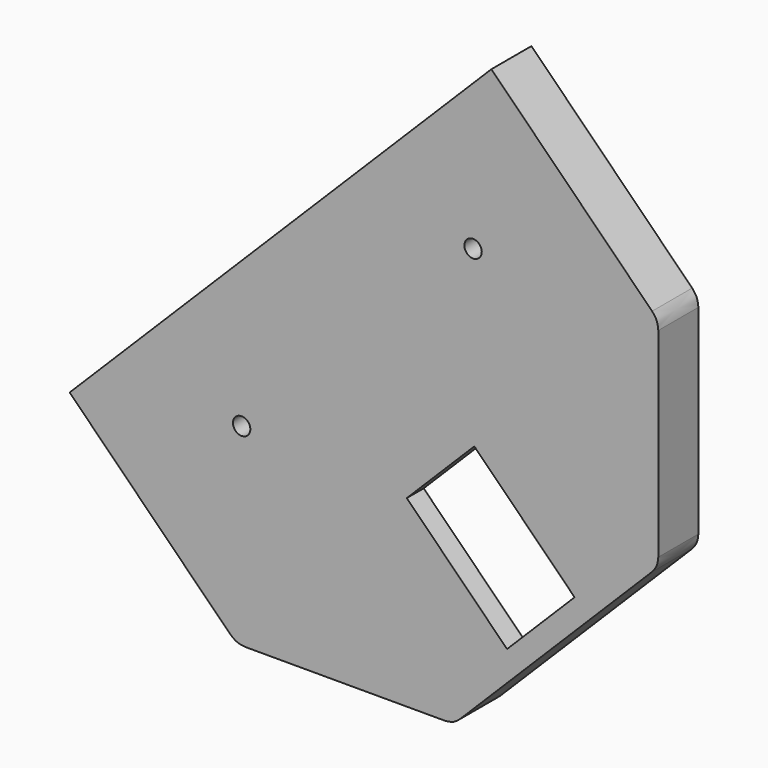
from build123d import *

# Parameters (mm, degrees)
F0_W     = 4.4881204973
F0_H     = 1
F0_W_2   = 1
F0_H_2   = 9.6190602487
F0_H_3   = 7.107180746
F1_DEPTH = 8.65
F2_DEPTH = 5
F3_DEPTH = 5
F5_DEPTH = 3.65
F6_R     = 1.5
F7_DEPTH = 3.65


with BuildPart() as f1:
    # F0 (on Front) → F1 (new body)
    with BuildSketch(Plane.XZ):
        with BuildLine():
            Line((34.3548780517, 39.6712920324), (6.5856519265, 67.4405181576))
            Line((6.5856519265, 67.4405181576), (-66.2696871329, -5.4148209018))
            Line((-66.2696871329, -5.4148209018), (-38.5004610077, -33.1840470269))
            add(Edge.make_bspline(
                [(-38.5004610077, -33.1840470269), (-38.1234667087, -33.490568944), (-37.3694781107, -34.1036127783), (-36.4028402078, -34.2032757765), (-35.9195212563, -34.2531072756)],
                knots=[0, 0, 0, 0, 0.5, 1, 1, 1, 1], degree=3))
            Line((-35.9195212563, -34.2531072756), (-1.4432802617, -34.2531072756))
            add(Edge.make_bspline(
                [(-1.4432802617, -34.2531072756), (-0.9599613102, -34.2032757765), (0.0066765927, -34.1036127783), (0.7606651907, -33.490568944), (1.1376594897, -33.1840470269)],
                knots=[0, 0, 0, 0, 0.5, 1, 1, 1, 1], degree=3))
            Line((1.1376594897, -33.1840470269), (17.7462687707, -16.5754377459))
            Line((17.7462687707, -16.5754377459), (34.3548780517, 0.0331715351))
            add(Edge.make_bspline(
                [(34.3548780517, 0.0331715351), (34.6613999688, 0.4101658341), (35.274443803, 1.164154432), (35.3741068012, 2.1307923349), (35.4239383003, 2.6141112864)],
                knots=[0, 0, 0, 0, 0.5, 1, 1, 1, 1], degree=3))
            Line((35.4239383003, 2.6141112864), (35.4239383003, 37.0903522811))
            add(Edge.make_bspline(
                [(35.4239383003, 37.0903522811), (35.3741068012, 37.5736712325), (35.274443803, 38.5403091354), (34.6613999688, 39.2942977334), (34.3548780517, 39.6712920324)],
                knots=[0, 0, 0, 0, 0.5, 1, 1, 1, 1], degree=3))
        make_face()
        Polygon((-61.8149144114, -6.1219276829), (-37.3337348187, -30.6031072756), (-38.0408415999, -31.3102140568), (-62.5220211925, -6.8290344641), align=None, mode=Mode.SUBTRACT)
        with Locations((-32.6754610077, -32.1031072756)):
            Rectangle(F0_W, F0_H, mode=Mode.SUBTRACT)
        with Locations((-4.6873405103, -32.1031072756)):
            Rectangle(F0_W, F0_H, mode=Mode.SUBTRACT)
        Polygon((5.6193874733, -24.954653103), (6.3264942545, -25.6617598842), (0.6780400819, -31.3102140568), (-0.0290666993, -30.6031072756), align=None, mode=Mode.SUBTRACT)
        Polygon((25.4183773465, -3.7414496674), (15.1653290193, -13.9944979946), (-0.7361734805, -29.8960004944), (-2.4432802617, -30.6031072756), (-6.931400759, -30.6031072756), (-30.431400759, -30.6031072756), (-34.9195212563, -30.6031072756), (-36.6266280375, -29.8960004944), (-61.1078076302, -5.4148209018), (6.5856519265, 62.2786386549), (31.0668315191, 37.7974590623), (31.7739383003, 36.0903522811), (31.7739383003, 3.6141112864), (31.0668315191, 1.9070045052), align=None, mode=Mode.SUBTRACT)
        Polygon((32.4810450815, 0.4927909428), (26.8325909089, -5.1556632298), (26.1254841277, -4.4485564486), (31.7739383003, 1.199897724), align=None, mode=Mode.SUBTRACT)
        with Locations((33.2739383003, 8.4236414107)):
            Rectangle(F0_W_2, F0_H_2, mode=Mode.SUBTRACT)
        Polygon((-62.5220211926, -4.0006073394), (5.1714383642, 63.6928522173), (5.8785451453, 62.9857454361), (-61.8149144114, -4.7077141206), align=None, mode=Mode.SUBTRACT)
        with Locations((33.2739383003, 32.5367619081)):
            Rectangle(F0_W_2, F0_H_3, mode=Mode.SUBTRACT)
        Polygon((7.9998654889, 63.6928522172), (32.4810450815, 39.2116726246), (31.7739383003, 38.5045658435), (7.2927587077, 62.9857454361), align=None, mode=Mode.SUBTRACT)
        Polygon((-0.7361734805, -29.8960004944), (15.1653290193, -13.9944979946), (25.4183773465, -3.7414496674), (31.0668315191, 1.9070045052), (31.7739383003, 3.6141112864), (31.7739383003, 36.0903522811), (31.0668315191, 37.7974590623), (6.5856519265, 62.2786386549), (-61.1078076302, -5.4148209018), (-36.6266280375, -29.8960004944), (-34.9195212563, -30.6031072756), (-30.431400759, -30.6031072756), (-6.931400759, -30.6031072756), (-2.4432802617, -30.6031072756), align=None)
        Polygon((5.8785451453, 62.9857454361), (5.1714383642, 63.6928522173), (-62.5220211926, -4.0006073394), (-61.8149144114, -4.7077141206), align=None)
        Polygon((31.7739383003, 38.5045658435), (32.4810450815, 39.2116726246), (7.9998654889, 63.6928522172), (7.2927587077, 62.9857454361), align=None)
        Polygon((-38.0408415999, -31.3102140568), (-37.3337348187, -30.6031072756), (-61.8149144114, -6.1219276829), (-62.5220211925, -6.8290344641), align=None)
        with Locations((33.2739383003, 8.4236414107)):
            Rectangle(F0_W_2, F0_H_2)
        Polygon((26.1254841277, -4.4485564486), (26.8325909089, -5.1556632298), (32.4810450815, 0.4927909428), (31.7739383003, 1.199897724), align=None)
        Polygon((0.6780400819, -31.3102140568), (6.3264942545, -25.6617598842), (5.6193874733, -24.954653103), (-0.0290666993, -30.6031072756), align=None)
        with Locations((33.2739383003, 32.5367619081)):
            Rectangle(F0_W_2, F0_H_3)
        with Locations((-4.6873405103, -32.1031072756)):
            Rectangle(F0_W, F0_H)
        with Locations((-32.6754610077, -32.1031072756)):
            Rectangle(F0_W, F0_H)
    extrude(amount=F1_DEPTH)

    # F0 (on Front) → F2 (cut)
    with BuildSketch(Plane.XZ):
        Polygon((-0.7361734805, -29.8960004944), (15.1653290193, -13.9944979946), (25.4183773465, -3.7414496674), (31.0668315191, 1.9070045052), (31.7739383003, 3.6141112864), (31.7739383003, 36.0903522811), (31.0668315191, 37.7974590623), (6.5856519265, 62.2786386549), (-61.1078076302, -5.4148209018), (-36.6266280375, -29.8960004944), (-34.9195212563, -30.6031072756), (-30.431400759, -30.6031072756), (-6.931400759, -30.6031072756), (-2.4432802617, -30.6031072756), align=None)
    extrude(amount=F2_DEPTH, mode=Mode.SUBTRACT)

    # F0 (on Front) → F3 (cut)
    with BuildSketch(Plane.XZ):
        Polygon((31.7739383003, 38.5045658435), (32.4810450815, 39.2116726246), (7.9998654889, 63.6928522172), (7.2927587077, 62.9857454361), align=None)
        Polygon((5.8785451453, 62.9857454361), (5.1714383642, 63.6928522173), (-62.5220211926, -4.0006073394), (-61.8149144114, -4.7077141206), align=None)
        Polygon((-38.0408415999, -31.3102140568), (-37.3337348187, -30.6031072756), (-61.8149144114, -6.1219276829), (-62.5220211925, -6.8290344641), align=None)
        with Locations((-32.6754610077, -32.1031072756)):
            Rectangle(F0_W, F0_H)
        with Locations((-4.6873405103, -32.1031072756)):
            Rectangle(F0_W, F0_H)
        Polygon((0.6780400819, -31.3102140568), (6.3264942545, -25.6617598842), (5.6193874733, -24.954653103), (-0.0290666993, -30.6031072756), align=None)
        Polygon((26.1254841277, -4.4485564486), (26.8325909089, -5.1556632298), (32.4810450815, 0.4927909428), (31.7739383003, 1.199897724), align=None)
        with Locations((33.2739383003, 8.4236414107)):
            Rectangle(F0_W_2, F0_H_2)
        with Locations((33.2739383003, 32.5367619081)):
            Rectangle(F0_W_2, F0_H_3)
    extrude(amount=F3_DEPTH, mode=Mode.SUBTRACT)

    # F4 (on face) → F5 (cut, through all)
    with BuildSketch(Plane(origin=(0, -5, 0), x_dir=(-1, 0, 0), z_dir=(0, 1, 0))):
        Polygon((-3.6387139853, 9.1271192495), (-20.9628301244, -8.1969968896), (-9.2955682348, -19.8642587791), (8.0285479043, -2.5401426401), align=None)
    extrude(amount=-F5_DEPTH, mode=Mode.SUBTRACT)

    # F6 (on face) → F7 (cut, through all)
    with BuildSketch(Plane.XZ.offset(8.65)):
        with Locations((3.4263458096, 39.1169224389)):
            Circle(F6_R)
        with Locations((-36.5514419514, -0.8608653222)):
            Circle(F6_R)
    extrude(amount=-F7_DEPTH, mode=Mode.SUBTRACT)


solid = f1.part
